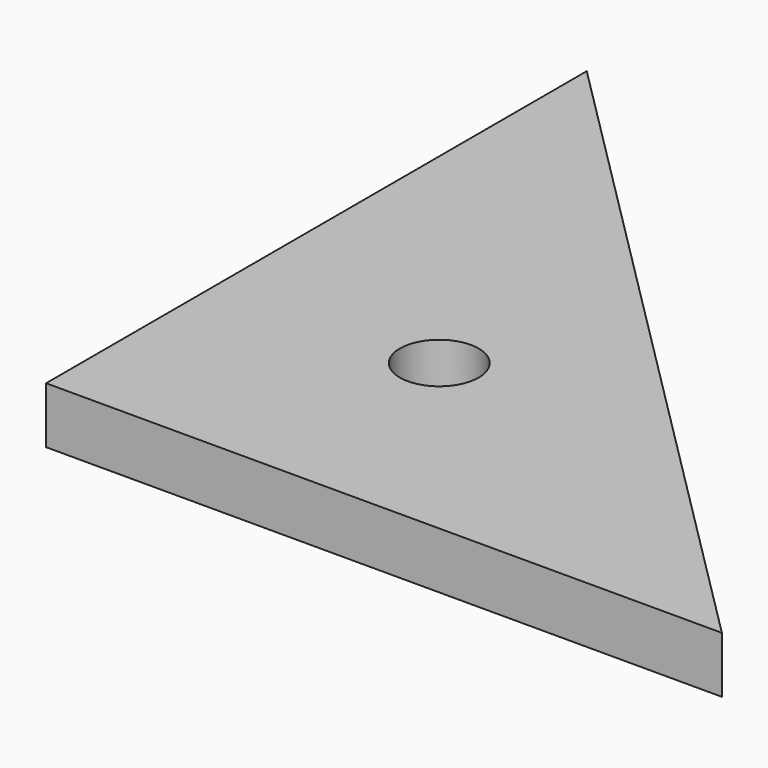
from build123d import *

# Parameters (mm, degrees)
F1_DEPTH = 5


with BuildPart() as f1:
    # F0 (on Top) → F1 (new body)
    with BuildSketch(Plane.XY):
        Polygon((0, 60), (0, 0), (60, 0), (30, 30), align=None)
        with BuildLine():
            ThreePointArc((22.893398, 19.393398), (16.15982, 18.054006), (21.868272, 21.868272))
            ThreePointArc((21.868272, 21.868272), (22.626977, 20.73279), (22.893398, 19.393398))
        make_face(mode=Mode.SUBTRACT)
    extrude(amount=F1_DEPTH)


solid = f1.part
